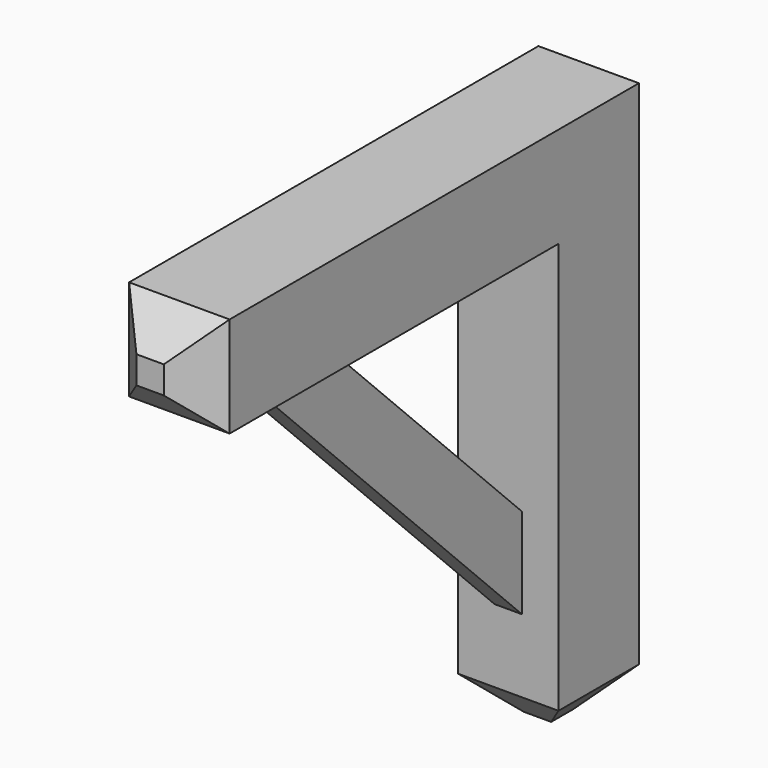
from build123d import *

# Parameters (mm, degrees)
F1_DEPTH = 69.85
F2_SIZE2 = 50.8
F2_SIZE  = 50.8
F4_DEPTH = 19.05


with BuildPart() as f1:
    # F0 (on Right) → F1 (new body, symmetric)
    with BuildSketch(Plane.YZ):
        Polygon((0, 0), (-762, 0), (-762, -139.7), (-139.7, -139.7), (-139.7, -762), (0, -762), align=None)
    extrude(amount=F1_DEPTH, both=True)

    # F2
    f2_edges = [f1.edges().sort_by_distance(p)[0] for p in [
        (0, -762, -139.7),
        (69.85, -69.85, -762),
        (0, -139.7, -762),
        (-69.85, -69.85, -762),
        (0, 0, -762),
        (-69.85, -762, -69.85),
        (0, -762, 0),
        (69.85, -762, -69.85),
    ]]
    chamfer(f2_edges, length=F2_SIZE, length2=F2_SIZE2)

    # F3 (on Right) → F4 (join, symmetric)
    with BuildSketch(Plane.YZ):
        Polygon((-483.876414, -139.7), (-609.6, -139.7), (-139.7, -609.6), (-139.7, -483.876414), align=None)
    extrude(amount=F4_DEPTH, both=True)


solid = f1.part
